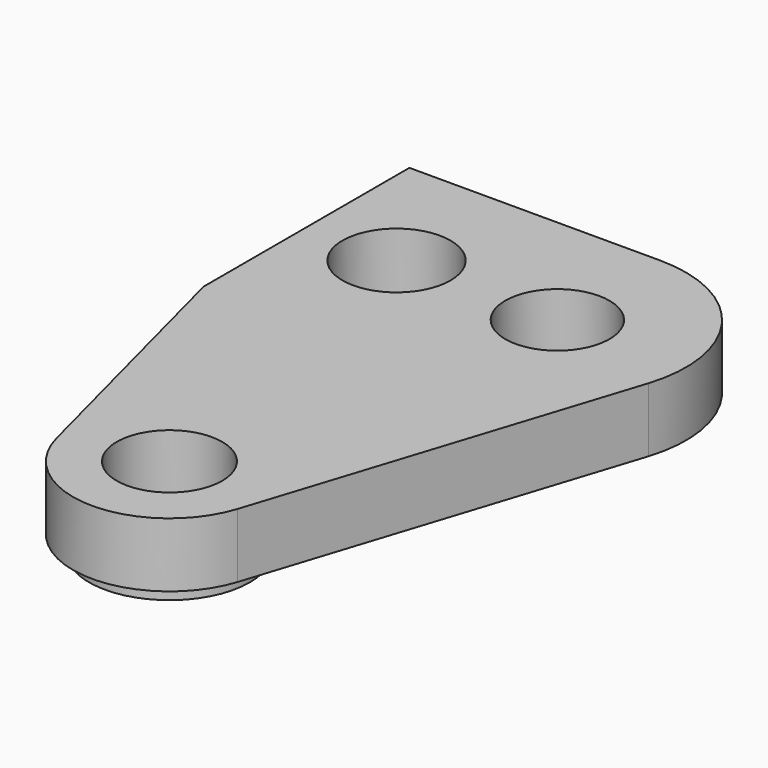
from build123d import *

# Parameters (mm, degrees)
BINDER_R        = 1.62
PAD_DEPTH       = 2
SKETCH_R        = 1.68
POCKET_DEPTH    = 2
SKETCH001_R     = 2.5
PAD001_DEPTH    = 0.5
SKETCH002_R     = 1.64
POCKET001_DEPTH = 2.5


with BuildPart() as part:
    # Binder → Pad (new body)
    with BuildSketch(Plane(origin=(-2.505049, -4.237344, 0), x_dir=(0, 1, 0), z_dir=(0, 0, 1))):
        with BuildLine():
            ThreePointArc((-8.205901, 3.106567), (-10.451974, 0.288635), (-8.371302, -2.653539))
            Line((-8.371302, -2.653539), (3.01322, -6.313136))
            ThreePointArc((3.01322, -6.313136), (6.59356, -5.737424), (8.237344, -2.505049))
            Line((8.237344, -2.505049), (8.237344, 5.294951))
            Line((8.237344, 5.294951), (0.237344, 5.294951))
            Line((0.237344, 5.294951), (-8.205901, 3.106567))
        make_face()
        with Locations((4.237344, -2.505049)):
            Circle(BINDER_R, mode=Mode.SUBTRACT)
    extrude(amount=-PAD_DEPTH)

    # Sketch (on Face9 of Pad) → Pocket (cut)
    with BuildSketch(Plane(origin=(0, 0, -2), x_dir=(1, 0, 0), z_dir=(0, 0, -1))):
        with Locations((-5, 0)):
            Circle(SKETCH_R)
    extrude(amount=-POCKET_DEPTH, mode=Mode.SUBTRACT)

    # Sketch001 (on Face5 of Pocket) → Pad001 (join)
    with BuildSketch(Plane(origin=(0, 0, -2), x_dir=(1, 0, 0), z_dir=(0, 0, -1))):
        with Locations((-2.707575, 11.690553)):
            Circle(SKETCH001_R)
    extrude(amount=PAD001_DEPTH)

    # Sketch002 (on Face12 of Pad001) → Pocket001 (cut)
    with BuildSketch(Plane(origin=(0, 0, -2.5), x_dir=(1, 0, 0), z_dir=(0, 0, -1))):
        with Locations((-2.707575, 11.690553)):
            Circle(SKETCH002_R)
    extrude(amount=-POCKET001_DEPTH, mode=Mode.SUBTRACT)


solid = part.part
